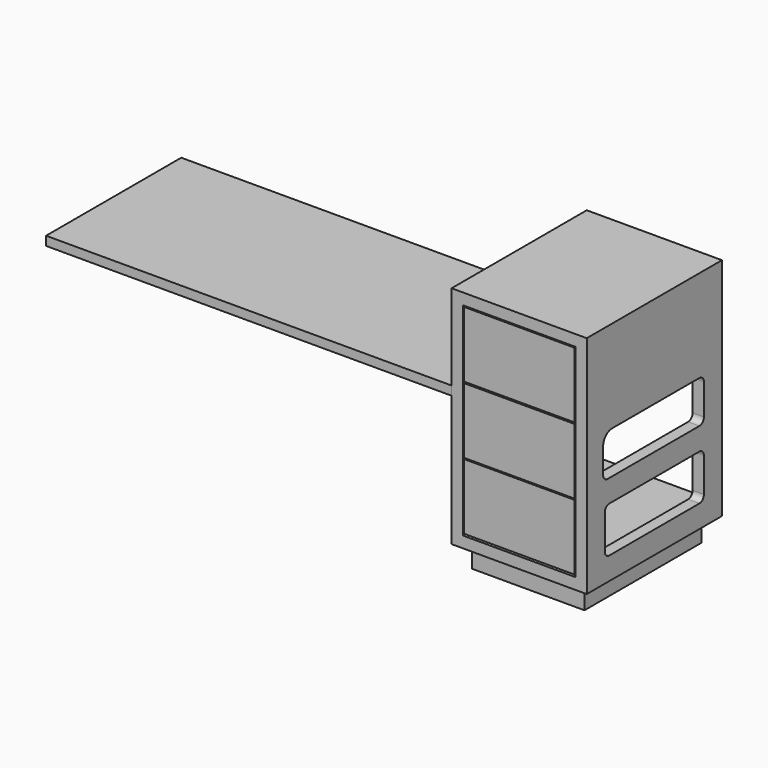
from build123d import *

# Parameters (mm, degrees)
F2_W      = 1800
F2_H      = 40
F4_DEPTH  = 750
F5_W      = 600
F5_H      = 1000
F6_DEPTH  = 750
F7_W      = 500
F7_H      = 900
F8_DEPTH  = 750.001
F10_DEPTH = 2400.001
F11_W     = 490
F11_H     = 291.6666666667
F12_DEPTH = 25
F15_W     = 500
F15_H     = 650
F16_DEPTH = 100


with BuildPart() as f4:
    # F2 (on face) → F4 (new body)
    with BuildSketch(Plane.XZ):
        with Locations((-365, 700)):
            Rectangle(F2_W, F2_H)
    extrude(amount=F4_DEPTH)


with BuildPart() as f6:
    # F5 (on face) → F6 (new body)
    with BuildSketch(Plane.XZ):
        with Locations((835, 500)):
            Rectangle(F5_W, F5_H)
    extrude(amount=F6_DEPTH)

    # F7 (on face) → F8 (cut, through all)
    with BuildSketch(Plane.XZ):
        with Locations((835, 500)):
            Rectangle(F7_W, F7_H)
    extrude(amount=F8_DEPTH, mode=Mode.SUBTRACT)

    # F9 (on face) → F10 (cut, through all)
    with BuildSketch(Plane.YZ.offset(1135)):
        with BuildLine():
            Line((-125, 590.5064177513), (-608.9838862419, 590.5064177513))
            ThreePointArc((-608.9838862419, 590.5064177513), (-644.3392253012, 575.8617568106), (-658.9838862419, 540.5064177513))
            Line((-658.9838862419, 540.5064177513), (-658.9838862419, 427.8873324394))
            ThreePointArc((-658.9838862419, 427.8873324394), (-651.6615557716, 410.2096629098), (-633.9838862419, 402.8873324394))
            Line((-633.9838862419, 402.8873324394), (-125, 402.8873324394))
            ThreePointArc((-125, 402.8873324394), (-107.3223304703, 410.2096629098), (-100, 427.8873324394))
            Line((-100, 427.8873324394), (-100, 565.5064177513))
            ThreePointArc((-100, 565.5064177513), (-107.3223304703, 583.184087281), (-125, 590.5064177513))
        make_face()
        with BuildLine():
            Line((-125, 302.8873324394), (-625, 302.8873324394))
            ThreePointArc((-625, 302.8873324394), (-642.6776695297, 295.5650019691), (-650, 277.8873324394))
            Line((-650, 277.8873324394), (-650, 125))
            ThreePointArc((-650, 125), (-642.6776695297, 107.3223304703), (-625, 100))
            Line((-625, 100), (-125, 100))
            ThreePointArc((-125, 100), (-107.3223304703, 107.3223304703), (-100, 125))
            Line((-100, 125), (-100, 277.8873324394))
            ThreePointArc((-100, 277.8873324394), (-107.3223304703, 295.5650019691), (-125, 302.8873324394))
        make_face()
    extrude(amount=-F10_DEPTH, mode=Mode.SUBTRACT)


with BuildPart() as f12:
    # F11 (on face) → F12 (new body)
    with BuildSketch(Plane.XZ):
        with Locations((835, 501.3296504815)):
            Rectangle(F11_W, F11_H)
    extrude(amount=F12_DEPTH)


with BuildPart() as f12b:
    # F11 (on face) → F12, piece 2 (new body)
    with BuildSketch(Plane.XZ):
        with Locations((835, 799.1666666667)):
            Rectangle(F11_W, F11_H)
    extrude(amount=F12_DEPTH)


with BuildPart() as f12c:
    # F11 (on face) → F12, piece 3 (new body)
    with BuildSketch(Plane.XZ):
        with Locations((835, 204.5144935449)):
            Rectangle(F11_W, F11_H)
    extrude(amount=F12_DEPTH)


with BuildPart() as f12b_1:
    # F13: moved
    add(f12b.part.moved(Location((0, -725, 0))))


with BuildPart() as f12_1:
    # F13: moved
    add(f12.part.moved(Location((0, -725, 0))))


with BuildPart() as f12c_1:
    # F13: moved
    add(f12c.part.moved(Location((0, -725, 0))))


with BuildPart() as f6_1:
    # F14: moved
    add(f6.part.moved(Location((0, 0, 100))))

    # F15 (on face) → F16 (join)
    with BuildSketch(Plane(origin=(0, 0, 100), x_dir=(1, 0, 0), z_dir=(0, 0, -1))):
        with Locations((835, 375)):
            Rectangle(F15_W, F15_H)
    extrude(amount=F16_DEPTH)


with BuildPart() as f12b_2:
    # F14: moved
    add(f12b_1.part.moved(Location((0, 0, 100))))


with BuildPart() as f12_2:
    # F14: moved
    add(f12_1.part.moved(Location((0, 0, 100))))


with BuildPart() as f12c_2:
    # F14: moved
    add(f12c_1.part.moved(Location((0, 0, 100))))


solid = Compound([f4.part, f6_1.part, f12b_2.part, f12_2.part, f12c_2.part])
